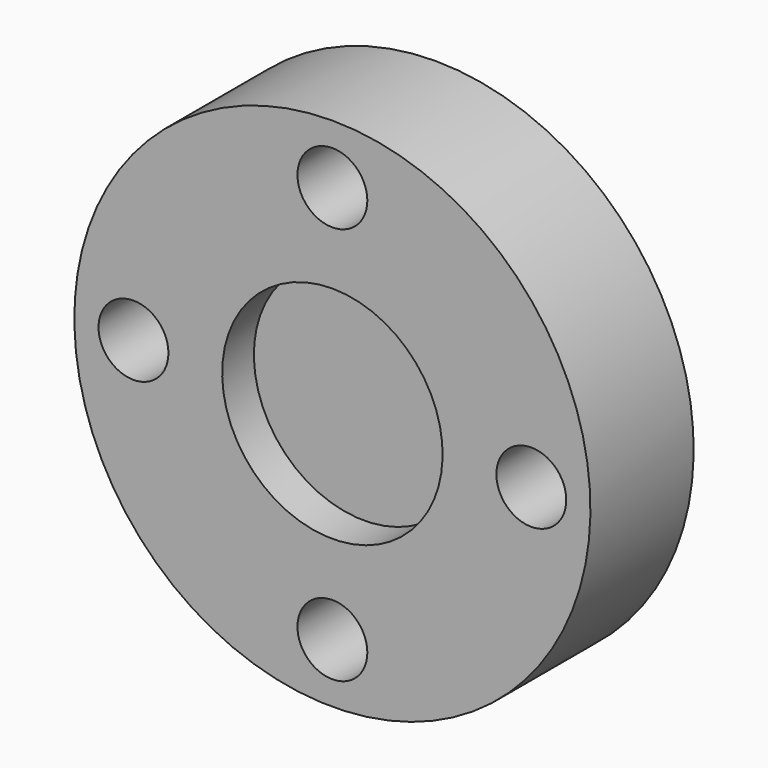
from build123d import *

# Parameters (mm, degrees)
F3_D = 6.5


with BuildPart() as f1:
    # F0 (on Right) → F1 (revolve)
    with BuildSketch(Plane.YZ):
        Polygon((3.686444, 10.25), (3.686444, 0), (12, 0), (12, 24), (0, 24), (0, 10.25), align=None)
    revolve(axis=Axis((0, 7.843222, 0), (0, 1, 0)))

    # F3 (through all)
    with Locations(Plane(origin=(0, 12, 0), x_dir=(-1, 0, 0), z_dir=(0, 1, 0))):
        with Locations((0, 18.5), (-18.5, 0), (0, -18.5), (18.5, 0)):
            Hole(F3_D / 2)


solid = f1.part
